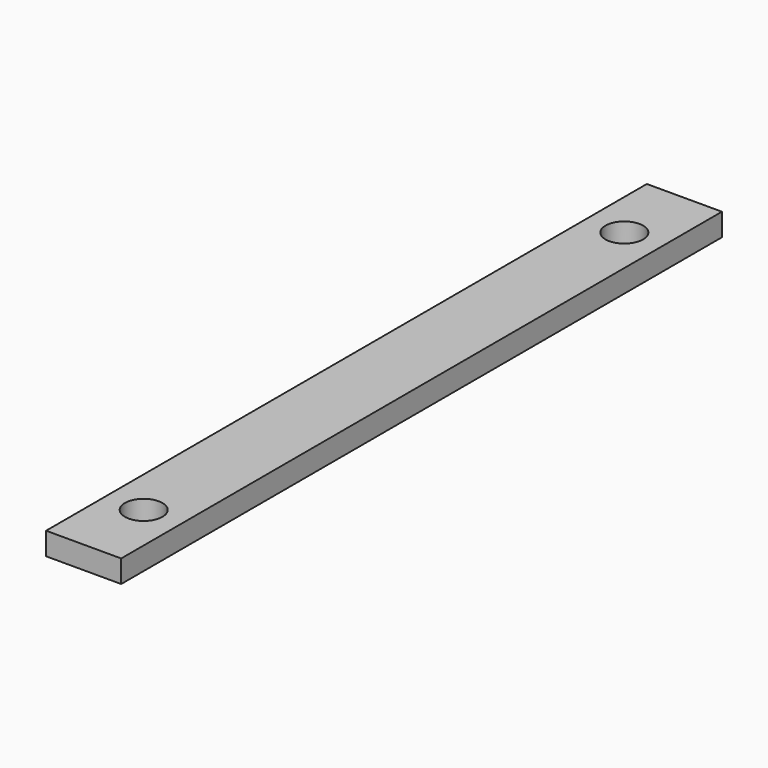
from build123d import *

# Parameters (mm, degrees)
CYLINDER010_R     = 2.5
CYLINDER010_DEPTH = 3
CYLINDER009_R     = 2.5
CYLINDER009_DEPTH = 3
BOX002_W          = 10
BOX002_H          = 100
BOX002_DEPTH      = 3


with BuildPart() as cylinder010:
    # Cylinder010 → Cylinder010 (new body)
    with BuildSketch(Plane(origin=(35, 90, 24.5), x_dir=(1, 0, 0), z_dir=(0, 0, 1))):
        Circle(CYLINDER010_R)
    extrude(amount=CYLINDER010_DEPTH)


with BuildPart() as cylinder009:
    # Cylinder009 → Cylinder009 (new body)
    with BuildSketch(Plane(origin=(35, 10, 24.5), x_dir=(1, 0, 0), z_dir=(0, 0, 1))):
        Circle(CYLINDER009_R)
    extrude(amount=CYLINDER009_DEPTH)


with BuildPart() as cut_1st_support_bar:
    # Box002 → Box002 (new body)
    with BuildSketch(Plane(origin=(30, 0, 24.5), x_dir=(1, 0, 0), z_dir=(0, 0, 1))):
        with Locations((5, 50)):
            Rectangle(BOX002_W, BOX002_H)
    extrude(amount=BOX002_DEPTH)

    # Cut003: cut Cylinder009
    add(cylinder009.part, mode=Mode.SUBTRACT)

    # Cut004: cut Cylinder010
    add(cylinder010.part, mode=Mode.SUBTRACT)


solid = cut_1st_support_bar.part
